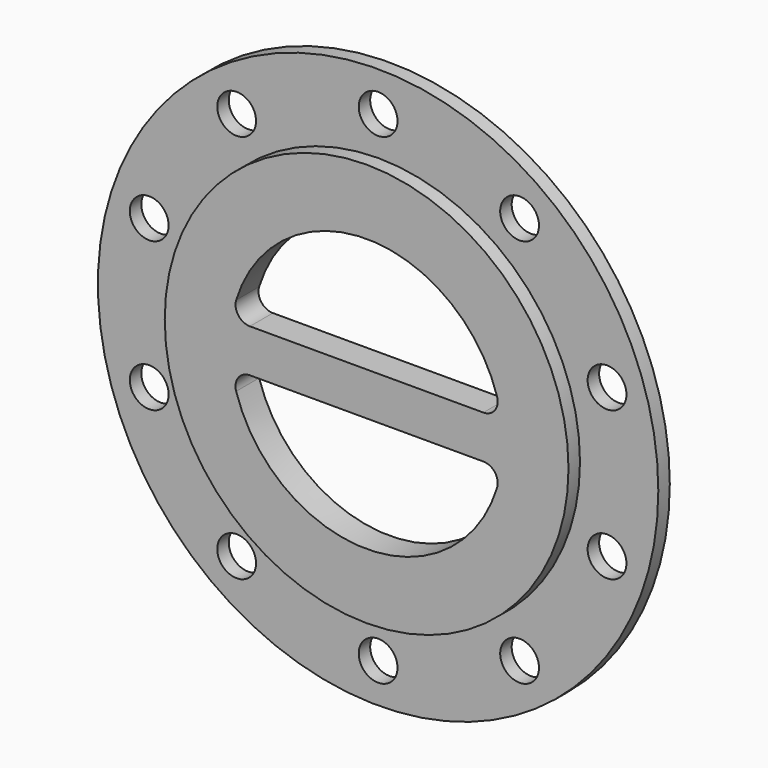
from build123d import *

# Parameters (mm, degrees)
F0_R     = 140.5
F1_DEPTH = 20
F0_R_2   = 195
F0_R_3   = 13.5
F2_DEPTH = 10
F4_DEPTH = 25


with BuildPart() as f1:
    # F0 (on Front) → F1 (new body)
    with BuildSketch(Plane.XZ):
        Circle(F0_R)
    extrude(amount=F1_DEPTH)

    # F0 (on Front) → F2 (join)
    with BuildSketch(Plane.XZ):
        Circle(F0_R_2)
        with Locations((-98.45403, -135.510347)):
            Circle(F0_R_3, mode=Mode.SUBTRACT)
        with Locations((-159.301966, -51.760347)):
            Circle(F0_R_3, mode=Mode.SUBTRACT)
        with Locations((0, -167.5)):
            Circle(F0_R_3, mode=Mode.SUBTRACT)
        with Locations((98.45403, -135.510347)):
            Circle(F0_R_3, mode=Mode.SUBTRACT)
        with Locations((159.301966, -51.760347)):
            Circle(F0_R_3, mode=Mode.SUBTRACT)
        with Locations((-159.301966, 51.760347)):
            Circle(F0_R_3, mode=Mode.SUBTRACT)
        with Locations((-98.45403, 135.510347)):
            Circle(F0_R_3, mode=Mode.SUBTRACT)
        Circle(F0_R, mode=Mode.SUBTRACT)
        with Locations((159.301966, 51.760347)):
            Circle(F0_R_3, mode=Mode.SUBTRACT)
        with Locations((0, 167.5)):
            Circle(F0_R_3, mode=Mode.SUBTRACT)
        with Locations((98.45403, 135.510347)):
            Circle(F0_R_3, mode=Mode.SUBTRACT)
    extrude(amount=F2_DEPTH)

    # F3 (on face) → F4 (cut)
    with BuildSketch(Plane.XZ.offset(20)):
        with BuildLine():
            ThreePointArc((81.240384, 15), (89.284381, 19.059115), (90.798076, 27.941176))
            ThreePointArc((90.798076, 27.941176), (0, 95), (-90.798076, 27.941176))
            ThreePointArc((-90.798076, 27.941176), (-89.284381, 19.059115), (-81.240384, 15))
            Line((-81.240384, 15), (81.240384, 15))
        make_face()
        with BuildLine():
            Line((81.240384, -15), (-81.240384, -15))
            ThreePointArc((-81.240384, -15), (-89.284381, -19.059115), (-90.798076, -27.941176))
            ThreePointArc((-90.798076, -27.941176), (0, -95), (90.798076, -27.941176))
            ThreePointArc((90.798076, -27.941176), (89.284381, -19.059115), (81.240384, -15))
        make_face()
    extrude(amount=-F4_DEPTH, mode=Mode.SUBTRACT)


solid = f1.part
